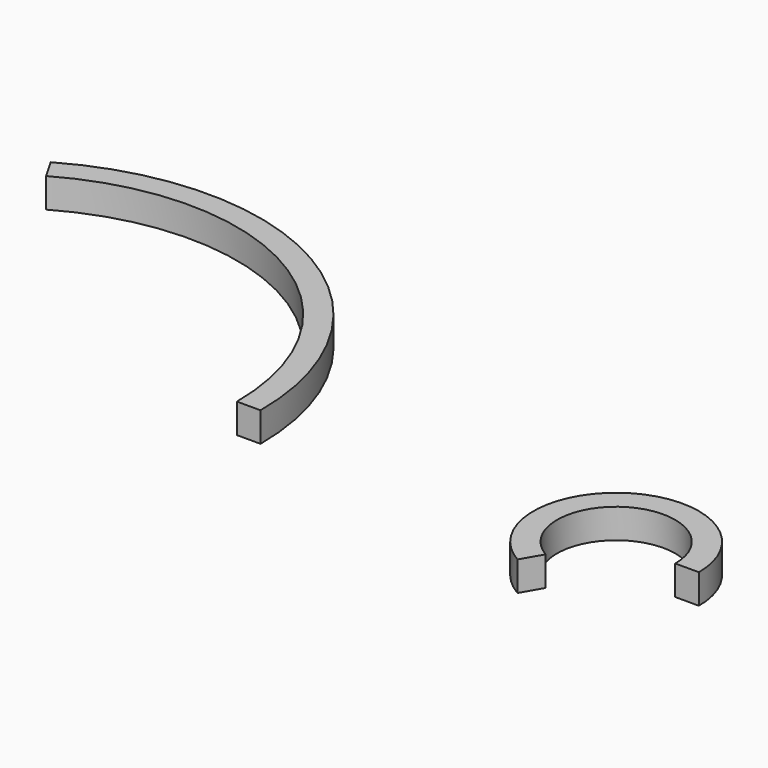
from build123d import *

# Parameters (mm, degrees)
F0_W     = 4
F0_H     = 5
F1_ANGLE = 240
F2_W     = 4
F2_H     = 5
F3_ANGLE = 120


with BuildPart() as f1:
    # F0 (on Front) → F1 (revolve)
    with BuildSketch(Plane.XZ):
        with Locations((55.908015, 2.5)):
            Rectangle(F0_W, F0_H)
    revolve(axis=Axis((43.908015, 0, 7.11061), (0, 0, 1)), revolution_arc=F1_ANGLE)


with BuildPart() as f3:
    # F2 (on Front) → F3 (revolve)
    with BuildSketch(Plane.XZ):
        with Locations((-18.262419, 2.5)):
            Rectangle(F2_W, F2_H)
    revolve(axis=Axis((-60.262419, 0, 7.821671), (0, 0, 1)), revolution_arc=F3_ANGLE)


solid = Compound([f1.part, f3.part])
